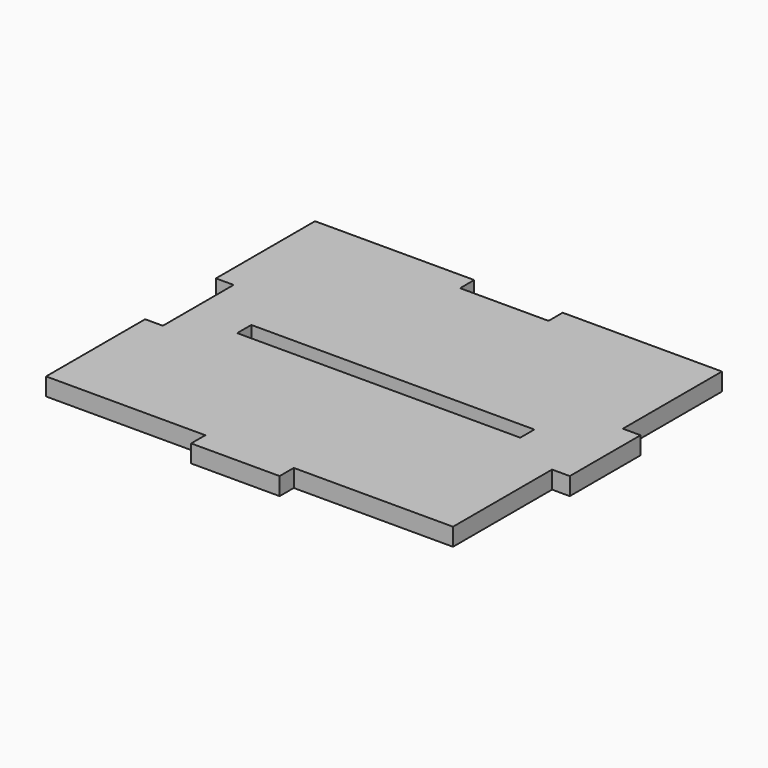
from build123d import *

# Parameters (mm, degrees)
F0_W     = 101.6
F0_H     = 6.35
F1_DEPTH = 6.35


with BuildPart() as f1:
    # F0 (on Top) → F1 (new body)
    with BuildSketch(Plane.XY):
        Polygon((-63.5, 63.5), (-76.2, 63.5), (-76.2, 57.15), (-76.2, 50.8), (-76.2, 44.45), (-76.2, 38.1), (-76.2, 31.75), (-76.2, 25.4), (-76.2, 19.05), (-69.85, 19.05), (-69.85, 12.7), (-69.85, 6.35), (-69.85, 0), (-69.85, -6.35), (-69.85, -12.7), (-76.2, -12.7), (-76.2, -19.05), (-76.2, -25.4), (-76.2, -31.75), (-76.2, -38.1), (-76.2, -44.45), (-76.2, -50.8), (-76.2, -57.15), (-69.85, -57.15), (-63.5, -57.15), (-57.15, -57.15), (-50.8, -57.15), (-44.45, -57.15), (-38.1, -57.15), (-31.75, -57.15), (-25.4, -57.15), (-19.05, -57.15), (-19.05, -63.5), (-12.7, -63.5), (-6.35, -63.5), (0, -63.5), (6.35, -63.5), (12.7, -63.5), (12.7, -57.15), (19.05, -57.15), (25.4, -57.15), (31.75, -57.15), (38.1, -57.15), (44.45, -57.15), (50.8, -57.15), (57.15, -57.15), (63.5, -57.15), (69.85, -57.15), (69.85, -50.8), (69.85, -44.45), (69.85, -38.1), (69.85, -31.75), (69.85, -25.4), (69.85, -19.05), (69.85, -12.7), (76.2, -12.7), (76.2, -6.35), (76.2, 0), (76.2, 6.35), (76.2, 12.7), (76.2, 19.05), (69.85, 19.05), (69.85, 25.4), (69.85, 31.75), (69.85, 38.1), (69.85, 44.45), (69.85, 50.8), (69.85, 63.5), (63.5, 63.5), (57.15, 63.5), (50.8, 63.5), (44.45, 63.5), (38.1, 63.5), (31.75, 63.5), (25.4, 63.5), (19.05, 63.5), (12.7, 63.5), (12.7, 57.15), (6.35, 57.15), (0, 57.15), (-6.35, 57.15), (-12.7, 57.15), (-19.05, 57.15), (-19.05, 63.5), (-25.4, 63.5), (-31.75, 63.5), (-38.1, 63.5), (-44.45, 63.5), (-50.8, 63.5), (-57.15, 63.5), align=None)
        Rectangle(F0_W, F0_H, mode=Mode.SUBTRACT)
    extrude(amount=F1_DEPTH)


solid = f1.part
